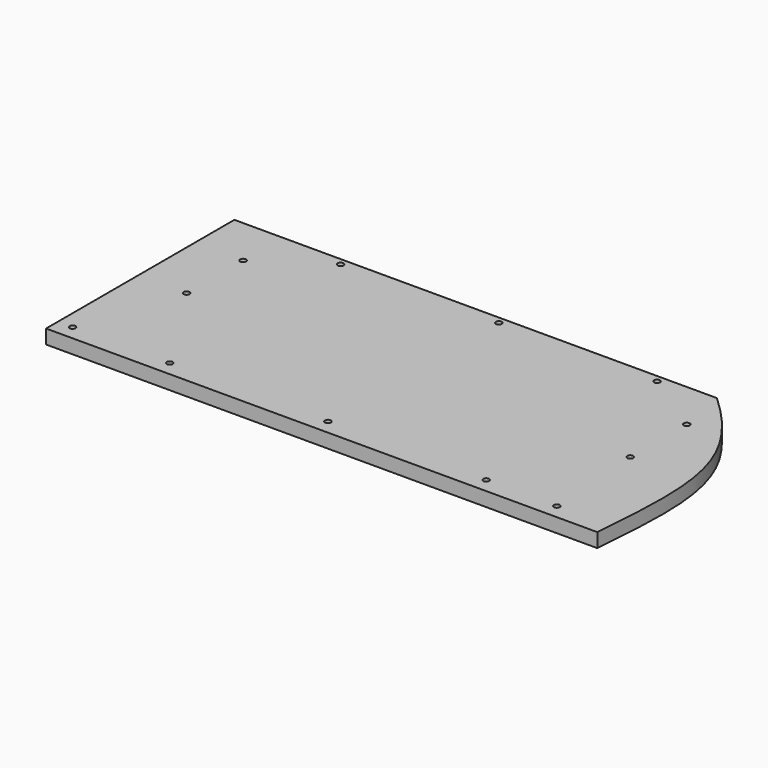
from build123d import *

# Parameters (mm, degrees)
F0_R     = 2.5
F1_DEPTH = 12


with BuildPart() as f1:
    # F0 (on Top) → F1 (new body)
    with BuildSketch(Plane.XY):
        with BuildLine():
            Line((-194.5, -106.5), (194.5, -106.5))
            Line((194.5, -106.5), (238.9289140701, -106.5))
            add(Edge.make_bspline(
                [(238.9289140701, -106.5), (241.6498019919, -68.7516226675), (248.6675399769, 5.1919141598), (216.2944364942, 60.6104442813), (180.5, 93.5)],
                knots=[0, 0, 0, 0, 0.4956686303, 1, 1, 1, 1], degree=3))
            Line((180.5, 93.5), (-194.5, 93.5))
            Line((-194.5, 93.5), (-229.5, 93.5))
            Line((-229.5, 93.5), (-229.5, -106.5))
            Line((-229.5, -106.5), (-194.5, -106.5))
        make_face()
        with Locations((-217, -94)):
            Circle(F0_R, mode=Mode.SUBTRACT)
        with Locations((-134.5, -94)):
            Circle(F0_R, mode=Mode.SUBTRACT)
        with Locations((0, -94)):
            Circle(F0_R, mode=Mode.SUBTRACT)
        with Locations((-188.5, -8.5)):
            Circle(F0_R, mode=Mode.SUBTRACT)
        with Locations((134.5, -94)):
            Circle(F0_R, mode=Mode.SUBTRACT)
        with Locations((194.5, -94)):
            Circle(F0_R, mode=Mode.SUBTRACT)
        with Locations((188.5, -8.5)):
            Circle(F0_R, mode=Mode.SUBTRACT)
        with Locations((-188.5, 51.5)):
            Circle(F0_R, mode=Mode.SUBTRACT)
        with Locations((-134.5, 87.5)):
            Circle(F0_R, mode=Mode.SUBTRACT)
        with Locations((0, 87.5)):
            Circle(F0_R, mode=Mode.SUBTRACT)
        with Locations((188.5, 51.5)):
            Circle(F0_R, mode=Mode.SUBTRACT)
        with Locations((134.5, 87.5)):
            Circle(F0_R, mode=Mode.SUBTRACT)
    extrude(amount=F1_DEPTH)


solid = f1.part
